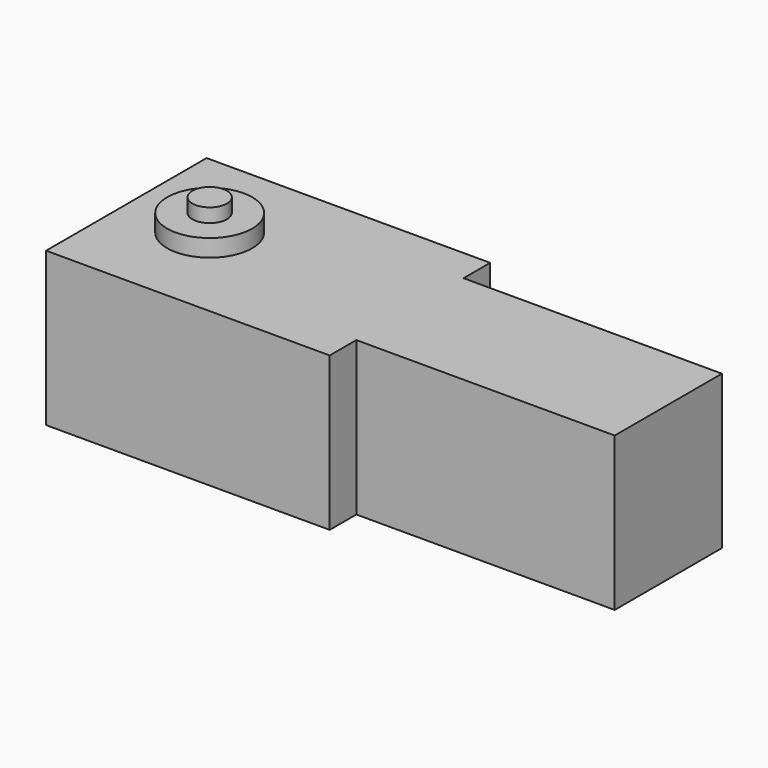
from build123d import *

# Parameters (mm, degrees)
SKETCH001_R      = 5
EXTRUDE001_DEPTH = 4
SKETCH_R         = 12.3
EXTRUDE_DEPTH    = 5
BOX001_W         = 82
BOX001_H         = 58
BOX001_DEPTH     = 44.4
BOX_W            = 74.7
BOX_H            = 38.74
BOX_DEPTH        = 44.4


with BuildPart() as extrude001:
    # Sketch001 (on Face3 of Extrude) → Extrude001 (new body)
    with BuildSketch(Plane.XY.offset(49.4)):
        with Locations((-58.7, 20.37)):
            Circle(SKETCH001_R)
    extrude(amount=EXTRUDE001_DEPTH)


with BuildPart() as extrude_body:
    # Sketch (on Face6 of Box001) → Extrude (new body)
    with BuildSketch(Plane(origin=(-82, -9.63, 44.4), x_dir=(1, 0, 0), z_dir=(0, 0, 1))):
        with Locations((23.3, 30)):
            Circle(SKETCH_R)
    extrude(amount=EXTRUDE_DEPTH)


with BuildPart() as cube001:
    # Box001 → Box001 (new body)
    with BuildSketch(Plane(origin=(-82, -9.63, 0), x_dir=(1, 0, 0), z_dir=(0, 0, 1))):
        with Locations((41, 29)):
            Rectangle(BOX001_W, BOX001_H)
    extrude(amount=BOX001_DEPTH)


with BuildPart() as fusion003:
    # Box → Box (new body)
    with BuildSketch(Plane.XY):
        with Locations((37.35, 19.37)):
            Rectangle(BOX_W, BOX_H)
    extrude(amount=BOX_DEPTH)

    # Fusion: union Cube001
    add(cube001.part)

    # Fusion002: union Extrude body
    add(extrude_body.part)

    # Fusion003: union Extrude001
    add(extrude001.part)


solid = fusion003.part
